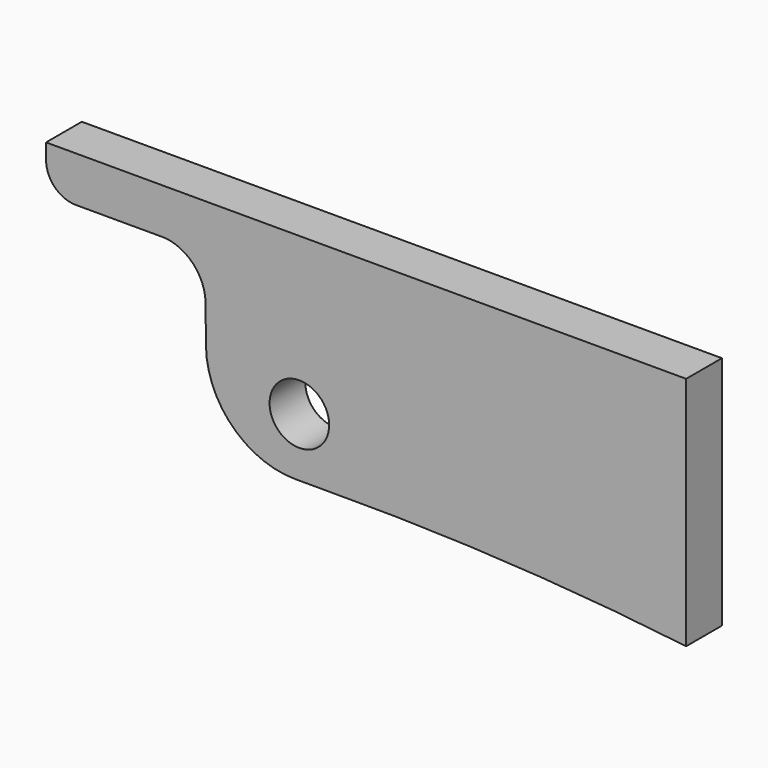
from build123d import *

# Parameters (mm, degrees)
F0_R     = 3.175
F1_DEPTH = 4.7625


with BuildPart() as f1:
    # F0 (on Front) → F1 (new body)
    with BuildSketch(Plane.XZ):
        with BuildLine():
            Line((41.21404, 16.7132), (-26.9875, 16.7132))
            Line((-26.9875, 16.7132), (-26.9875, 15.1257))
            ThreePointArc((-26.9875, 15.1257), (-26.085416, 12.83013), (-23.8125, 11.872399))
            Line((-23.8125, 11.872399), (-14.2875, 11.872399))
            ThreePointArc((-14.2875, 11.872399), (-11.24722, 10.349956), (-9.997112, 7.187936))
            Line((-9.997112, 7.187936), (-9.951094, 3.175))
            ThreePointArc((-9.951094, 3.175), (-7.123186, -3.489477), (-0.42672, -6.24078))
            Line((-0.42672, -6.24078), (2.60604, -6.24078))
            ThreePointArc((2.60604, -6.24078), (21.944184, -6.689743), (41.21404, -8.37438))
            Line((41.21404, -8.37438), (41.21404, 16.7132))
        make_face()
        Circle(F0_R, mode=Mode.SUBTRACT)
    extrude(amount=F1_DEPTH)


solid = f1.part
